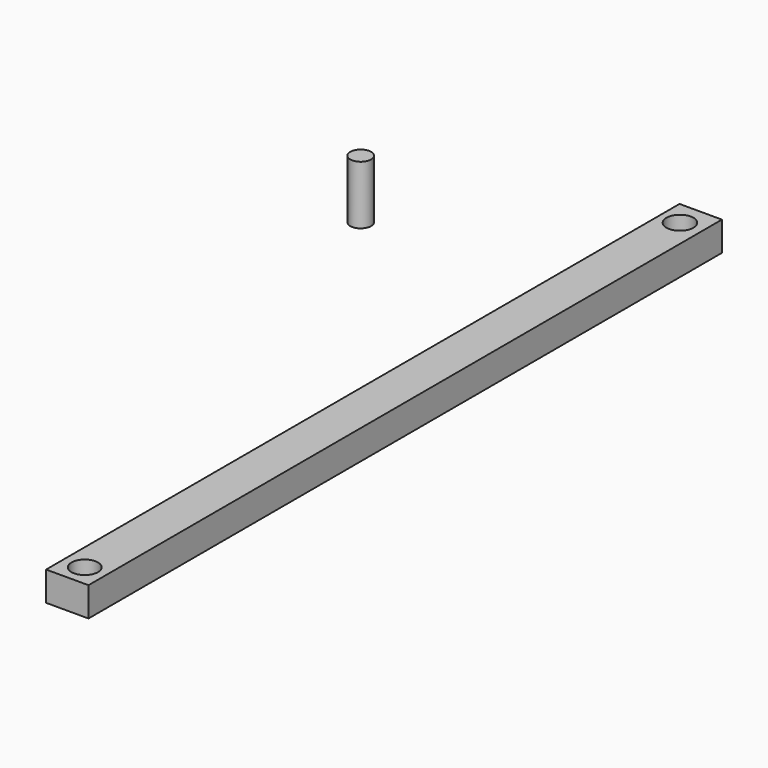
from build123d import *

# Parameters (mm, degrees)
F0_W     = 3.67393
F0_H     = 68.58
F0_R     = 1.14278
F0_R_2   = 1.171705
F1_DEPTH = 2.54
F0_R_3   = 0.900357
F2_DEPTH = 5.08


with BuildPart() as f1:
    # F0 (on Top) → F1 (new body)
    with BuildSketch(Plane.XY):
        with Locations((-39.015185, 3.381867)):
            Rectangle(F0_W, F0_H)
        with Locations((-39.015185, -29.018384)):
            Circle(F0_R, mode=Mode.SUBTRACT)
        with Locations((-39.10513, 35.537343)):
            Circle(F0_R_2, mode=Mode.SUBTRACT)
    extrude(amount=F1_DEPTH)


with BuildPart() as f2:
    # F0 (on Top) → F2 (new body)
    with BuildSketch(Plane.XY):
        with Locations((-59.059352, 25.913484)):
            Circle(F0_R_3)
    extrude(amount=F2_DEPTH)


solid = Compound([f1.part, f2.part])
